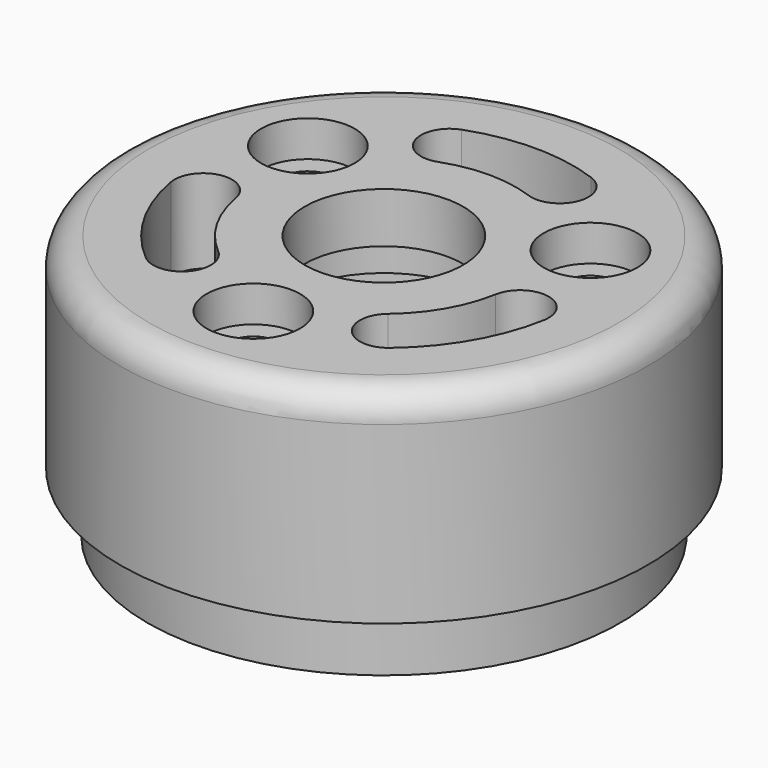
from build123d import *

# Parameters (mm, degrees)
SKETCH008_R             = 11
PAD003_DEPTH            = 8.5
SKETCH009_R             = 9.85
PAD004_DEPTH            = 2.5
SKETCH010_R             = 9
POCKET004_DEPTH         = 7.5
SKETCH011_R             = 1.95
POCKET005_DEPTH         = 1.5
FILLET001_R             = 1.2
SKETCH012_R             = 1.1
POCKET006_DEPTH         = 2
SKETCH013_R             = 3.3
POCKET007_DEPTH         = 3.5
SKETCH014_R             = 4.1
POCKET008_DEPTH         = 1.4
BODY002_PLACEMENT_ANGLE = 180.00001


with BuildPart() as part:
    # Sketch008 → Pad003 (new body)
    with BuildSketch(Plane.XY):
        Circle(SKETCH008_R)
    extrude(amount=PAD003_DEPTH)

    # Sketch009 (on Face3 of Pad003) → Pad004 (join)
    with BuildSketch(Plane.XY.offset(8.5)):
        Circle(SKETCH009_R)
    extrude(amount=PAD004_DEPTH)

    # Sketch010 (on Face5 of Pad004) → Pocket004 (cut)
    with BuildSketch(Plane.XY.offset(11)):
        Circle(SKETCH010_R)
    extrude(amount=-POCKET004_DEPTH, mode=Mode.SUBTRACT)

    # Sketch011 (on Face2 of Pocket004) → Pocket005 (cut)
    with BuildSketch(Plane(origin=(0, 0, 0), x_dir=(1, 0, 0), z_dir=(0, 0, -1))):
        with Locations((0, 6.8)):
            Circle(SKETCH011_R)
        with Locations((-5.8889727457, -3.4)):
            Circle(SKETCH011_R)
        with Locations((5.8889727457, -3.4)):
            Circle(SKETCH011_R)
    extrude(amount=-POCKET005_DEPTH, mode=Mode.SUBTRACT)

    # Fillet001
    fillet001_edges = [part.edges().sort_by_distance(p)[0] for p in [
        (-11, 0, 0),
    ]]
    fillet(fillet001_edges, radius=FILLET001_R)

    # Sketch012 (on Face11 of Fillet001) → Pocket006 (cut)
    with BuildSketch(Plane(origin=(0, 0, 1.5), x_dir=(1, 0, 0), z_dir=(0, 0, -1))):
        with Locations((-5.8889727457, -3.4)):
            Circle(SKETCH012_R)
        with Locations((0, 6.8)):
            Circle(SKETCH012_R)
        with Locations((5.8889727457, -3.4)):
            Circle(SKETCH012_R)
    extrude(amount=-POCKET006_DEPTH, mode=Mode.SUBTRACT)

    # Sketch013 (on Face4 of Pocket006) → Pocket007 (cut)
    with BuildSketch(Plane(origin=(0, 0, 0), x_dir=(1, 0, 0), z_dir=(0, 0, -1))):
        Circle(SKETCH013_R)
        with BuildLine():
            ThreePointArc((-3.5353318533, 4.2132444372), (-3.3874236532, 5.9038429005), (-5.0780221165, 6.0517511006))
            ThreePointArc((-5.0780221165, 6.0517511006), (-6.8416006899, 3.95), (-7.7799812488, 1.3718206036))
            ThreePointArc((-7.7799812488, 1.3718206036), (-6.8065897584, -0.0183265132), (-5.4164426416, 0.9550649772))
            ThreePointArc((-3.5353318533, 4.2132444372), (-4.7631397208, 2.75), (-5.4164426416, 0.9550649772))
        make_face()
        with BuildLine():
            ThreePointArc((5.0780221165, 6.0517511006), (3.3874236532, 5.9038429005), (3.5353318533, 4.2132444372))
            ThreePointArc((5.4164426416, 0.9550649772), (4.7631397208, 2.75), (3.5353318533, 4.2132444372))
            ThreePointArc((5.4164426416, 0.9550649772), (6.8065897584, -0.0183265132), (7.7799812488, 1.3718206036))
            ThreePointArc((7.7799812488, 1.3718206036), (6.8416006899, 3.95), (5.0780221165, 6.0517511006))
        make_face()
        with BuildLine():
            ThreePointArc((-1.8811107883, -5.1683094143), (-3.4191661052, -5.8855163873), (-2.7019591323, -7.4235717042))
            ThreePointArc((-2.7019591323, -7.4235717042), (0, -7.9), (2.7019591323, -7.4235717042))
            ThreePointArc((2.7019591323, -7.4235717042), (3.4191661052, -5.8855163873), (1.8811107883, -5.1683094143))
            ThreePointArc((-1.8811107883, -5.1683094143), (0, -5.5), (1.8811107883, -5.1683094143))
        make_face()
    extrude(amount=-POCKET007_DEPTH, mode=Mode.SUBTRACT)

    # Sketch014 (on Face23 of Pocket007) → Pocket008 (cut)
    with BuildSketch(Plane.XY.offset(3.5)):
        Circle(SKETCH014_R)
    extrude(amount=-POCKET008_DEPTH, mode=Mode.SUBTRACT)


with BuildPart() as part_1:
    # Body002 placement: moved
    add(part.part.moved(Location((2.3918e-06, 1e-05, 139.00003))).rotate(Axis((2.3918e-06, 1e-05, 139.00003), (0, 1, 0)), BODY002_PLACEMENT_ANGLE))


solid = part_1.part
